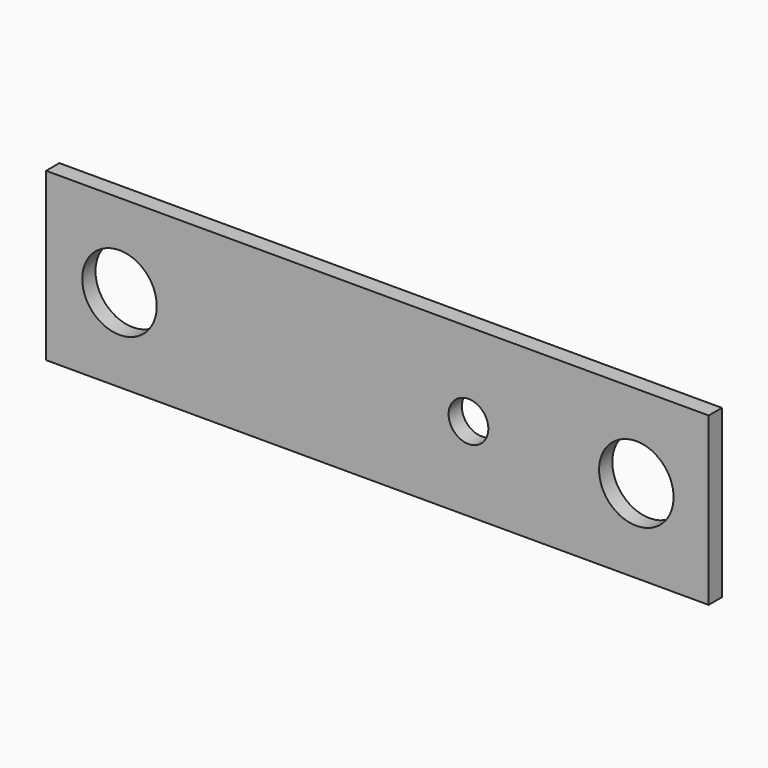
from build123d import *

# Parameters (mm, degrees)
F0_W     = 508
F0_H     = 127.845764
F1_DEPTH = 12.7
F3_D     = 57.15
F5_D     = 30.48


with BuildPart() as f1:
    # F0 (on Front) → F1 (new body)
    with BuildSketch(Plane.XZ):
        Rectangle(F0_W, F0_H)
    extrude(amount=F1_DEPTH)

    # F3 (through all)
    with Locations(Plane.XZ.offset(12.7)):
        with Locations((-197.69825, 0), (198.532864, 0)):
            Hole(F3_D / 2)

    # F5 (through all)
    with Locations(Plane.XZ.offset(12.7)):
        with Locations((69.839768, 0)):
            Hole(F5_D / 2)


solid = f1.part
